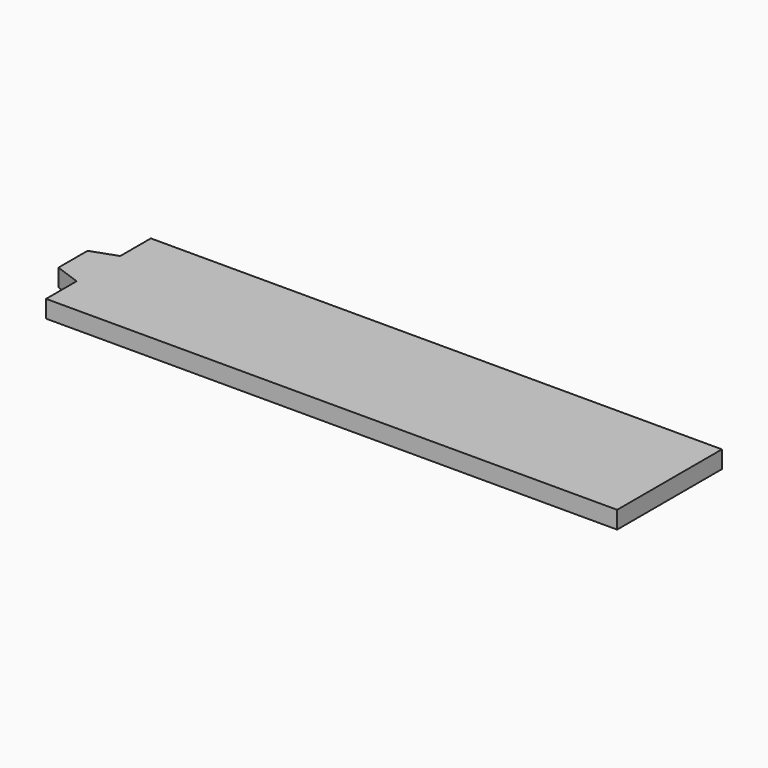
from build123d import *

# Parameters (mm, degrees)
F1_DEPTH = 3.048


with BuildPart() as f1:
    # F0 (on Top) → F1 (new body)
    with BuildSketch(Plane.XY):
        Polygon((-99.695, 0), (0, 0), (0, 22.86), (-99.695, 22.86), (-99.695, 16.1925), (-99.695, 11.43), (-99.695, 6.6675), align=None)
        Polygon((-104.14, 8.255), (-99.695, 6.6675), (-99.695, 11.43), (-104.14, 11.43), align=None)
        Polygon((-104.14, 11.43), (-99.695, 11.43), (-99.695, 16.1925), (-104.14, 14.605), align=None)
    extrude(amount=-F1_DEPTH)


solid = f1.part
